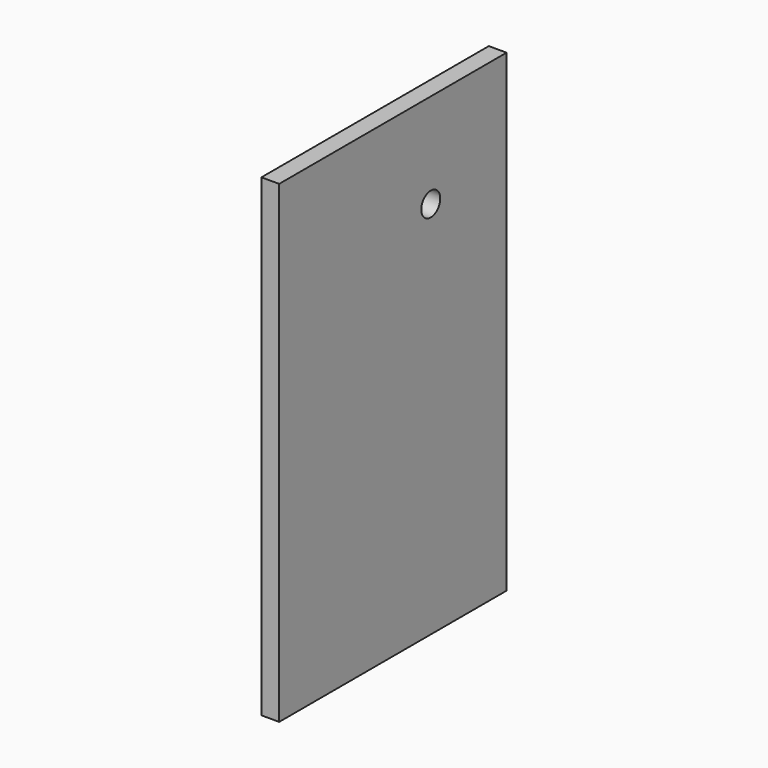
from build123d import *

# Parameters (mm, degrees)
F0_W     = 152.4
F0_H     = 254
F0_R     = 6.35
F1_DEPTH = 4.7625


with BuildPart() as f1:
    # F0 (on Right) → F1 (new body, symmetric)
    with BuildSketch(Plane.YZ):
        with Locations((-20.3339084785, 38.4282420009)):
            Rectangle(F0_W, F0_H)
        with Locations((5.0660915215, 114.6282420009)):
            Circle(F0_R, mode=Mode.SUBTRACT)
    extrude(amount=F1_DEPTH, both=True)


solid = f1.part
